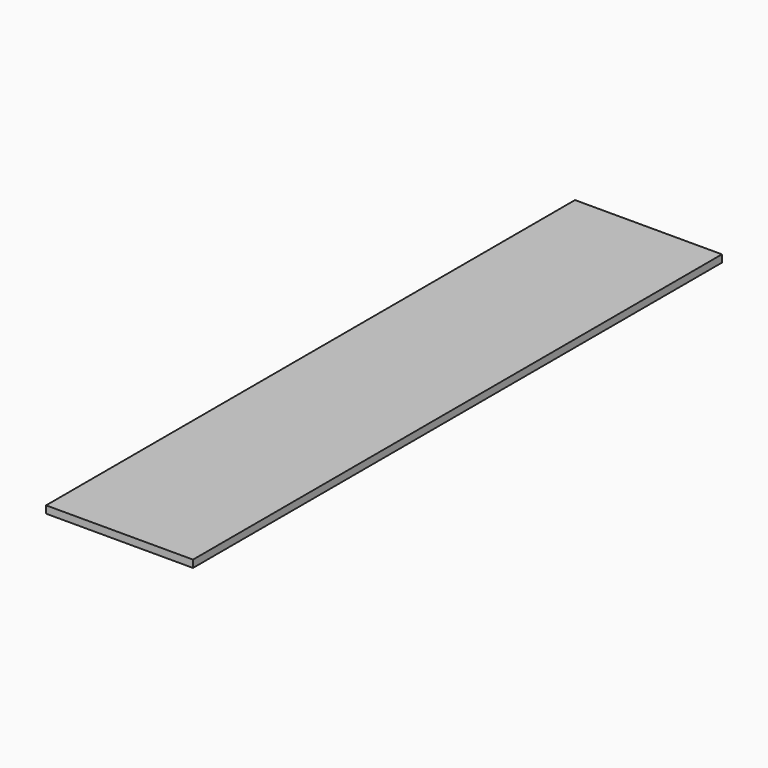
from build123d import *

# Parameters (mm, degrees)
F0_W     = 1.27
F0_H     = 0.9525
F1_DEPTH = 0.127


with BuildPart() as f1:
    # F0 (on Top) → F1 (new body)
    with BuildSketch(Plane.XY):
        with Locations((-0.805431, 2.630626)):
            Rectangle(F0_W, F0_H)
        with Locations((-0.805431, 1.678126)):
            Rectangle(F0_W, F0_H)
        with Locations((0.464569, 2.630626)):
            Rectangle(F0_W, F0_H)
        with Locations((0.464569, 1.678126)):
            Rectangle(F0_W, F0_H)
        with Locations((-0.805431, 0.725626)):
            Rectangle(F0_W, F0_H)
        with Locations((-0.805431, 3.583126)):
            Rectangle(F0_W, F0_H)
        with Locations((0.464569, 3.583126)):
            Rectangle(F0_W, F0_H)
        with Locations((0.464569, 0.725626)):
            Rectangle(F0_W, F0_H)
        with Locations((-0.805431, -0.226874)):
            Rectangle(F0_W, F0_H)
        with Locations((-0.805431, 4.535626)):
            Rectangle(F0_W, F0_H)
        with Locations((0.464569, 4.535626)):
            Rectangle(F0_W, F0_H)
        with Locations((0.464569, -0.226874)):
            Rectangle(F0_W, F0_H)
        with Locations((-0.805431, -1.179374)):
            Rectangle(F0_W, F0_H)
        with Locations((-0.805431, 5.488126)):
            Rectangle(F0_W, F0_H)
        with Locations((0.464569, 5.488126)):
            Rectangle(F0_W, F0_H)
        with Locations((0.464569, -1.179374)):
            Rectangle(F0_W, F0_H)
        with Locations((-0.805431, -2.131874)):
            Rectangle(F0_W, F0_H)
        with Locations((0.464569, -2.131874)):
            Rectangle(F0_W, F0_H)
        with Locations((-0.805431, -3.084374)):
            Rectangle(F0_W, F0_H)
        with Locations((0.464569, -3.084374)):
            Rectangle(F0_W, F0_H)
        with Locations((-0.805431, -4.036874)):
            Rectangle(F0_W, F0_H)
        with Locations((0.464569, -4.036874)):
            Rectangle(F0_W, F0_H)
        with Locations((-0.805431, -4.989374)):
            Rectangle(F0_W, F0_H)
        with Locations((0.464569, -4.989374)):
            Rectangle(F0_W, F0_H)
    extrude(amount=F1_DEPTH)


solid = f1.part
